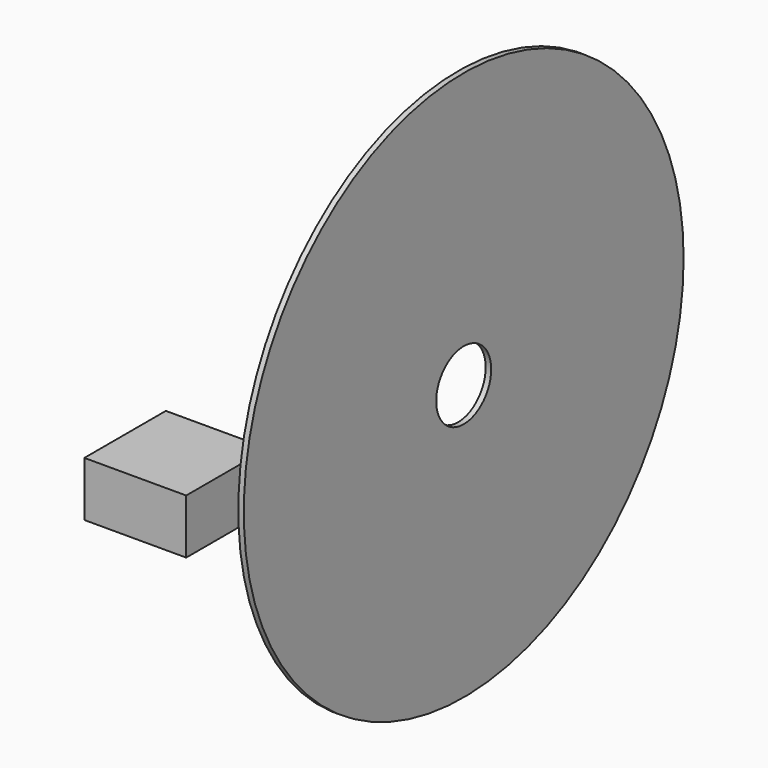
from build123d import *

# Parameters (mm, degrees)
F0_W     = 22.225
F0_H     = 22.225
F1_DEPTH = 11.938
F2_R     = 60
F2_R_2   = 7.5
F3_DEPTH = 1.2


with BuildPart() as f1:
    # F0 (on Top) → F1 (new body)
    with BuildSketch(Plane.XY):
        with Locations((-45.282906, -30.261758)):
            Rectangle(F0_W, F0_H)
    extrude(amount=-F1_DEPTH)


with BuildPart() as f3:
    # F2 (on Right) → F3 (new body)
    with BuildSketch(Plane.YZ):
        with Locations((-9.87778, 19.896667)):
            Circle(F2_R)
        with Locations((-9.87778, 19.896667)):
            Circle(F2_R_2, mode=Mode.SUBTRACT)
    extrude(amount=F3_DEPTH)


solid = Compound([f1.part, f3.part])
